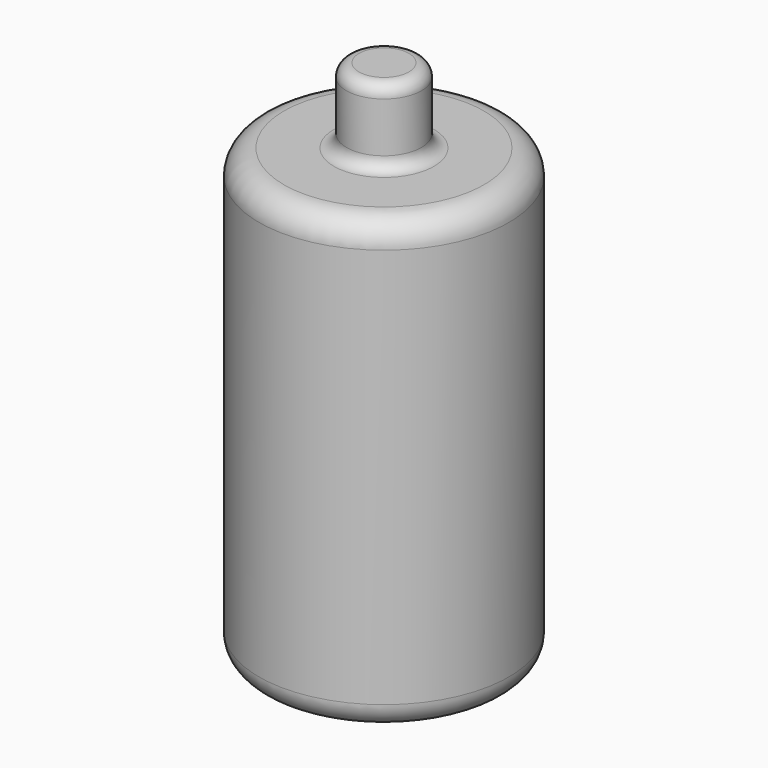
from build123d import *

# Parameters (mm, degrees)
F0_W = 19.05
F0_H = 38.1
F2_R = 6.35


with BuildPart() as f1:
    # F0 (on Front) → F1 (revolve)
    with BuildSketch(Plane.XZ):
        with BuildLine():
            Line((-38.1, 100.1140274882), (-69.85, 100.1140274882))
            ThreePointArc((-69.85, 100.1140274882), (-78.8302561211, 96.3942836093), (-82.55, 87.4140274882))
            Line((-82.55, 87.4140274882), (-82.55, -115.7859725118))
            ThreePointArc((-82.55, -115.7859725118), (-78.8302561211, -124.7662286328), (-69.85, -128.4859725118))
            Line((-69.85, -128.4859725118), (-19.05, -128.4859725118))
            Line((-19.05, -128.4859725118), (-19.05, 100.1140274882))
            Line((-19.05, 100.1140274882), (-38.1, 100.1140274882))
        make_face()
        with Locations((-28.575, 119.1640274882)):
            Rectangle(F0_W, F0_H)
    revolve(axis=Axis((-19.05, 0, 11.2281292677), (0, 0, -1)))

    # F2
    f2_edges = [f1.edges().sort_by_distance(p)[0] for p in [
        (0, 0, 100.114027),
        (0, 0, 138.214027),
    ]]
    fillet(f2_edges, radius=F2_R)


solid = f1.part
